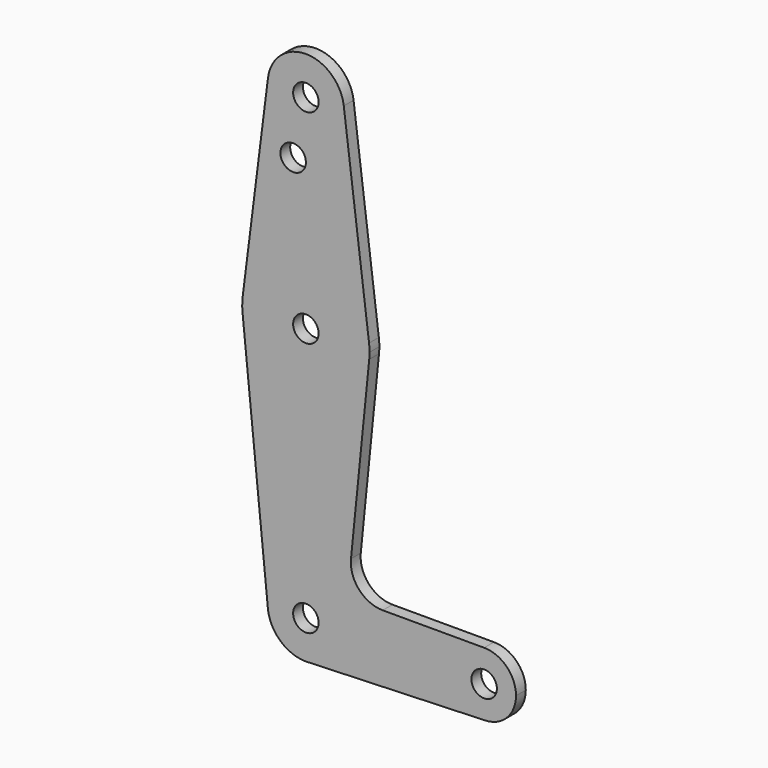
from build123d import *

# Parameters (mm, degrees)
F0_R     = 3.175
F1_DEPTH = 3.048


with BuildPart() as f1:
    # F0 (on Front) → F1 (new body)
    with BuildSketch(Plane.XZ):
        with BuildLine():
            ThreePointArc((-49.823998, 57.833091), (-40.970189, 47.136161), (-30.848705, 56.642466))
            ThreePointArc((-30.848705, 56.642466), (-30.867401, 57.238949), (-30.923412, 57.833091))
            ThreePointArc((-30.923412, 57.833091), (-40.373705, 66.167466), (-49.823998, 57.833091))
        make_face()
        with Locations((-40.373705, 56.642466)):
            Circle(F0_R, mode=Mode.SUBTRACT)
        with BuildLine():
            ThreePointArc((-30.923412, 57.833091), (-30.867401, 57.238949), (-30.848705, 56.642466))
            ThreePointArc((-30.848705, 56.642466), (-40.970189, 47.136161), (-49.823998, 57.833091))
            Line((-49.823998, 57.833091), (-56.124194, 7.826841))
            ThreePointArc((-56.124194, 7.826841), (-40.373705, 21.717466), (-24.623217, 7.826841))
            Line((-24.623217, 7.826841), (-30.923412, 57.833091))
        make_face()
        with Locations((-43.548705, 42.367666)):
            Circle(F0_R, mode=Mode.SUBTRACT)
        with BuildLine():
            ThreePointArc((-24.498705, 5.842466), (-24.529864, 6.836605), (-24.623217, 7.826841))
            ThreePointArc((-24.623217, 7.826841), (-40.373705, 21.717466), (-56.124194, 7.826841))
            ThreePointArc((-56.124194, 7.826841), (-56.247454, 6.041794), (-56.169055, 4.254215))
            ThreePointArc((-56.169055, 4.254215), (-40.373705, -10.032534), (-24.578355, 4.254215))
            ThreePointArc((-24.578355, 4.254215), (-24.51863, 5.047342), (-24.498705, 5.842466))
        make_face()
        with Locations((-40.373705, 5.842466)):
            Circle(F0_R, mode=Mode.SUBTRACT)
        with BuildLine():
            ThreePointArc((-24.578355, 4.254215), (-40.373705, -10.032534), (-56.169055, 4.254215))
            Line((-56.169055, 4.254215), (-49.871856, -58.372209))
            ThreePointArc((-49.871856, -58.372209), (-40.731295, -48.139249), (-30.848705, -57.657534))
            ThreePointArc((-30.848705, -57.657534), (-33.403149, -64.148833), (-39.696362, -67.15842))
            Line((-39.696362, -67.15842), (4.3587, -65.590009))
            ThreePointArc((4.3587, -65.590009), (-3.859949, -57.798759), (4.076295, -49.720034))
            Line((4.076295, -49.720034), (-21.215866, -49.720034))
            ThreePointArc((-21.215866, -49.720034), (-27.112019, -47.10285), (-29.126178, -40.974438))
            Line((-29.126178, -40.974438), (-24.578355, 4.254215))
        make_face()
        with BuildLine():
            Line((-49.823998, -58.848159), (-49.871856, -58.372209))
            ThreePointArc((-49.871856, -58.372209), (-49.850915, -58.610485), (-49.823998, -58.848159))
        make_face()
        with BuildLine():
            ThreePointArc((-30.848705, -57.657534), (-40.731295, -48.139249), (-49.871856, -58.372209))
            Line((-49.871856, -58.372209), (-49.823998, -58.848159))
            ThreePointArc((-49.823998, -58.848159), (-46.673901, -64.801284), (-40.373705, -67.182534))
            Line((-40.373705, -67.182534), (-39.696362, -67.15842))
            ThreePointArc((-39.696362, -67.15842), (-33.403149, -64.148833), (-30.848705, -57.657534))
        make_face()
        with Locations((-40.373705, -57.657534)):
            Circle(F0_R, mode=Mode.SUBTRACT)
        with BuildLine():
            ThreePointArc((-40.373705, -67.182534), (-40.034819, -67.176504), (-39.696362, -67.15842))
            Line((-39.696362, -67.15842), (-40.373705, -67.182534))
        make_face()
        with BuildLine():
            ThreePointArc((12.013795, -57.657534), (9.688955, -52.044874), (4.076295, -49.720034))
            ThreePointArc((4.076295, -49.720034), (-3.859949, -57.798759), (4.3587, -65.590009))
            ThreePointArc((4.3587, -65.590009), (9.787927, -63.169445), (12.013795, -57.657534))
        make_face()
        with Locations((4.076295, -57.657534)):
            Circle(F0_R, mode=Mode.SUBTRACT)
    extrude(amount=F1_DEPTH)


solid = f1.part
